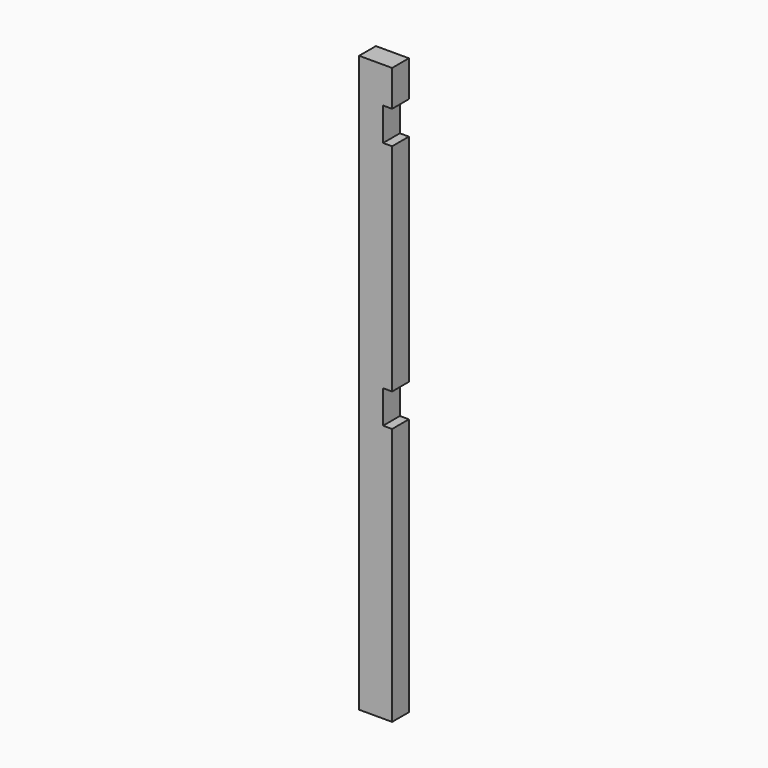
from build123d import *

# Parameters (mm, degrees)
F0_W     = 139.7
F0_H     = 88.9
F1_DEPTH = 1219.2
F2_W     = 88.9
F2_H     = 139.7
F3_DEPTH = 38.1
F4_R     = 4.7625
F5_DEPTH = 25.4


with BuildPart() as f1:
    # F0 (on Top) → F1 (new body, symmetric)
    with BuildSketch(Plane.XY):
        Rectangle(F0_W, F0_H)
    extrude(amount=F1_DEPTH, both=True)

    # F2 (on face) → F3 (cut)
    with BuildSketch(Plane.YZ.offset(69.85)):
        with Locations((0, 996.95)):
            Rectangle(F2_W, F2_H)
        with Locations((0, -57.15)):
            Rectangle(F2_W, F2_H)
    extrude(amount=-F3_DEPTH, mode=Mode.SUBTRACT)

    # F4 (on face) → F5 (cut)
    with BuildSketch(Plane(origin=(-69.85, 0, 0), x_dir=(0, -1, 0), z_dir=(-1, 0, 0))):
        with Locations((0, -558.8)):
            Circle(F4_R)
        with Locations((0, 431.8)):
            Circle(F4_R)
        with Locations((0, 1143)):
            Circle(F4_R)
    extrude(amount=-F5_DEPTH, mode=Mode.SUBTRACT)


solid = f1.part
